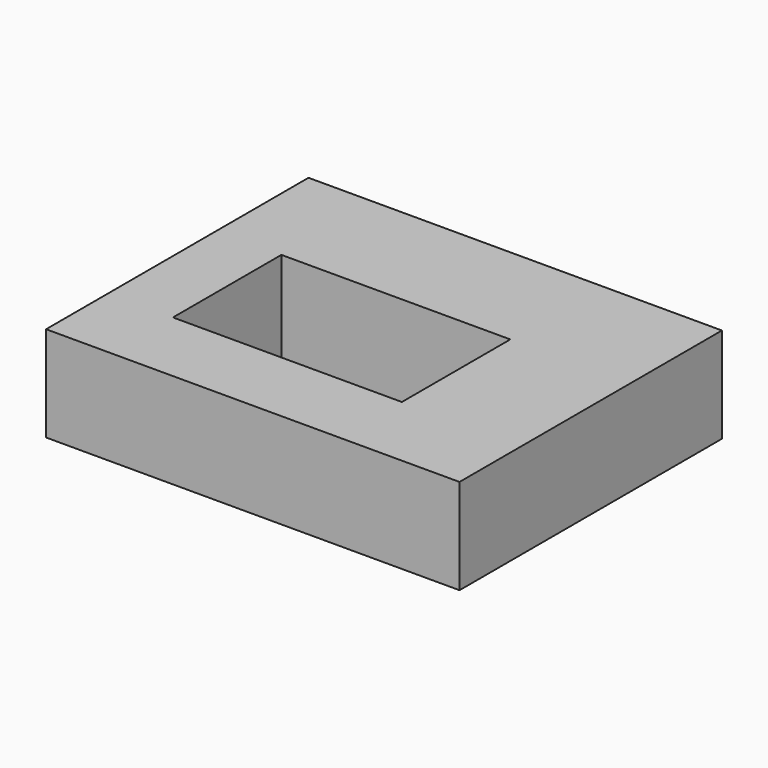
from build123d import *

# Parameters (mm, degrees)
F1_DEPTH = 25.4
F2_DEPTH = 25.4


with BuildPart() as f1:
    # F0 (on Top) → F1 (new body)
    with BuildSketch(Plane.XY):
        Polygon((27.002517, 45.054778), (-50.971057, 45.054778), (-50.971057, 14.411466), (-33.677306, 14.411466), (27.002517, 14.411466), align=None)
        Polygon((59.162825, 45.054778), (27.002517, 45.054778), (27.002517, 14.411466), (27.305918, 14.411466), (27.305918, -21.69303), (23.968525, -21.69303), (0, -21.69303), (-33.677306, -21.69303), (-33.677306, 14.411466), (-50.971057, 14.411466), (-50.971057, -42.32417), (59.162825, -42.32417), align=None)
    extrude(amount=F1_DEPTH)

    # F0 (on Top) → F2 (join)
    with BuildSketch(Plane.XY):
        Polygon((27.002517, 45.054778), (-50.971057, 45.054778), (-50.971057, 14.411466), (-33.677306, 14.411466), (27.002517, 14.411466), align=None)
        Polygon((59.162825, 45.054778), (27.002517, 45.054778), (27.002517, 14.411466), (27.305918, 14.411466), (27.305918, -21.69303), (23.968525, -21.69303), (0, -21.69303), (-33.677306, -21.69303), (-33.677306, 14.411466), (-50.971057, 14.411466), (-50.971057, -42.32417), (59.162825, -42.32417), align=None)
    extrude(amount=F2_DEPTH)


solid = f1.part
